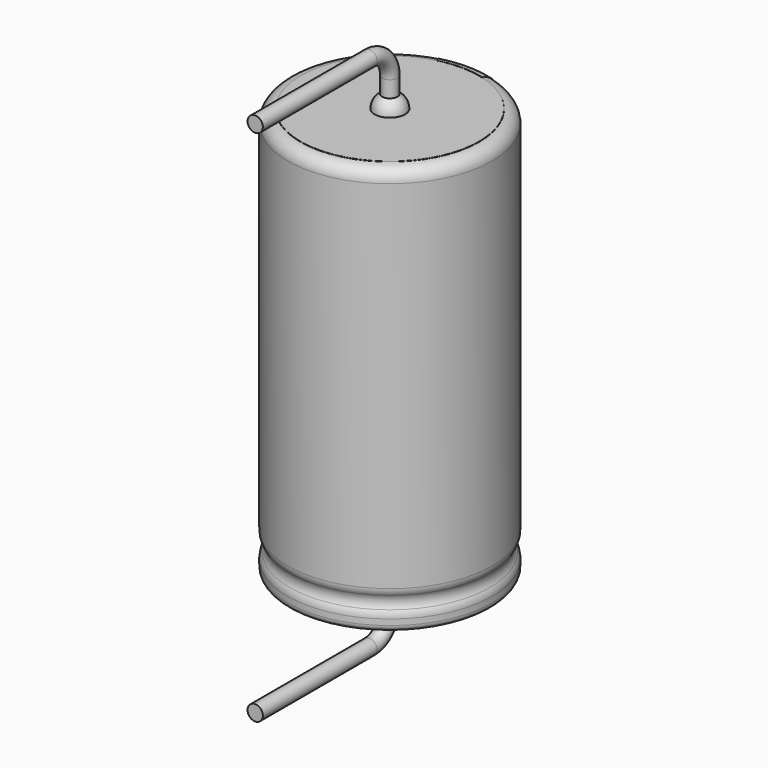
from build123d import *

# Parameters (mm, degrees)
SKETCH011_R             = 0.3
BODY007_PLACEMENT_ANGLE = 180
REVOLUTION001_ANGLE     = -30
POCKET_DEPTH            = 4.011
LINEARPATTERN_COUNT     = 4
LINEARPATTERN_PITCH     = 3.666667
SKETCH012_R             = 3.5
PAD_DEPTH               = 0.01
BODY008_PLACEMENT_ANGLE = 90


with BuildPart() as lead:
    # AdditivePipe: sweep along a path in Sketch010
    with BuildLine(Plane(origin=(0, 0, 0), x_dir=(0, -1, 0), z_dir=(-1, 0, 0))) as additivepipe_path:
        Line((0, 16), (0, 17.16))
        ThreePointArc((0, 17.16), (0.292893, 17.867107), (1, 18.16))
        Line((1, 18.16), (6.6, 18.16))
    # Sketch011 → AdditivePipe (sweep)
    with BuildSketch(Plane.XY.offset(16)):
        Circle(SKETCH011_R)
    sweep(path=additivepipe_path.line)


with BuildPart() as obj1:
    # Body007 base: copy of Lead
    add(lead.part)


with BuildPart() as obj1_1:
    # Body007 placement: moved
    add(obj1.part.moved(Location((0, 0, 16))).rotate(Axis((0, 0, 16), (0, 1, 0)), BODY007_PLACEMENT_ANGLE))


with BuildPart() as polaritymarking:
    # Sketch005 → Revolution001 (revolve)
    with BuildSketch(Plane(origin=(0, 0, 0), x_dir=(-0.258819, 0.965926, 0), z_dir=(0.965926, 0.258819, 0))):
        with BuildLine():
            Line((3.51, 0.043526), (3.51, 16.01))
            ThreePointArc((3.51, 16.01), (3.863553, 15.863553), (4.01, 15.51))
            Line((4.01, 15.51), (4.01, 1.523941))
            ThreePointArc((4.01, 1.523941), (3.989134, 1.381006), (3.928278, 1.25))
            ThreePointArc((3.928278, 1.25), (3.853698, 1), (3.928278, 0.75))
            ThreePointArc((3.928278, 0.75), (3.989134, 0.618994), (4.01, 0.476059))
            Line((4.01, 0.476059), (4.01, 0.043526))
            ThreePointArc((4.01, 0.043526), (3.76, -0.206474), (3.51, 0.043526))
        make_face()
    revolve(axis=Axis((0, 0, 0), (0, 0, 1)), revolution_arc=REVOLUTION001_ANGLE)

    # Sketch013 → Pocket (cut, through all)
    with BuildSketch(Plane.XZ):
        Polygon((0.375, 2), (-0.375, 2), (-0.375, 3), (0, 3.5), (0.375, 3), align=None)
    pocket = extrude(amount=-POCKET_DEPTH, mode=Mode.SUBTRACT)

    # LinearPattern: Pocket ×4
    with Locations(*[(0, 0, i * LINEARPATTERN_PITCH) for i in range(1, LINEARPATTERN_COUNT)]):
        add(pocket, mode=Mode.SUBTRACT)


with BuildPart() as housing:
    # Sketch → Revolution (revolve)
    with BuildSketch(Plane.XZ):
        with BuildLine():
            Line((0, 16), (3.5, 16))
            ThreePointArc((4, 15.5), (3.853553, 15.853553), (3.5, 16))
            Line((4, 15.5), (4, 1.523941))
            ThreePointArc((3.918278, 1.25), (3.979134, 1.381006), (4, 1.523941))
            ThreePointArc((3.918278, 1.25), (3.843698, 1), (3.918278, 0.75))
            ThreePointArc((4, 0.476059), (3.979134, 0.618994), (3.918278, 0.75))
            Line((4, 0.476059), (4, 0.25))
            ThreePointArc((3.75, 0), (3.926777, 0.073223), (4, 0.25))
            Line((0, 0), (3.75, 0))
            Line((0, 16), (0, 0))
        make_face()
    revolve(axis=Axis((0, 0, 0), (0, 0, 1)))


with BuildPart() as fusion:
    # Sphere → Sphere (revolve)
    with BuildSketch(Plane.XZ):
        with BuildLine():
            ThreePointArc((0, -0.6), (0.6, 0), (0, 0.6))
            Line((0, 0.6), (0, -0.6))
        make_face()
    revolve(axis=Axis((0, 0, 0), (0, 0, 1)))

    # Sketch012 (on ShapeBinder) → Pad (new body)
    with BuildSketch(Plane(origin=(0, 0, 0), x_dir=(0, -1, 0), z_dir=(0, 0, 1))):
        Circle(SKETCH012_R)
    extrude(amount=PAD_DEPTH)


with BuildPart() as fusion_1:
    # Body008 placement: moved
    add(fusion.part.moved(Location((0, 0, 16))).rotate(Axis((0, 0, 16), (0, 0, -1)), BODY008_PLACEMENT_ANGLE))

    # Fusion: union obj1, Lead, PolarityMarking, Housing
    add(obj1_1.part)
    add(lead.part)
    add(polaritymarking.part)
    add(housing.part)


solid = fusion_1.part
